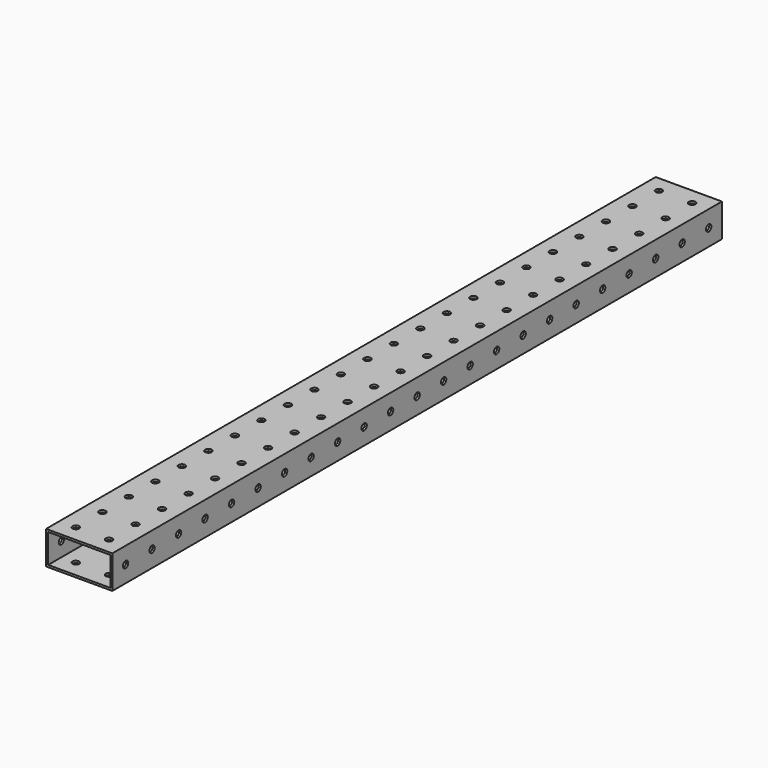
from build123d import *

# Parameters (mm, degrees)
F0_W     = 50.8
F0_H     = 25.4
F0_W_2   = 47.625
F0_H_2   = 22.225
F1_DEPTH = 584.2
F2_R     = 2.5527
F3_DEPTH = 25.4
F4_R     = 2.5527
F5_DEPTH = 50.801


with BuildPart() as f1:
    # F0 (on Front) → F1 (new body)
    with BuildSketch(Plane.XZ):
        Rectangle(F0_W, F0_H)
        Rectangle(F0_W_2, F0_H_2, mode=Mode.SUBTRACT)
    extrude(amount=F1_DEPTH)

    # F2 (on face) → F3 (cut)
    with BuildSketch(Plane.XY.offset(12.7)):
        with Locations((-12.7, -12.7)):
            Circle(F2_R)
        with Locations((-12.7, -38.1)):
            Circle(F2_R)
        with Locations((-12.7, -63.5)):
            Circle(F2_R)
        with Locations((-12.7, -88.9)):
            Circle(F2_R)
        with Locations((-12.7, -114.3)):
            Circle(F2_R)
        with Locations((-12.7, -139.7)):
            Circle(F2_R)
        with Locations((-12.7, -165.1)):
            Circle(F2_R)
        with Locations((-12.7, -190.5)):
            Circle(F2_R)
        with Locations((-12.7, -215.9)):
            Circle(F2_R)
        with Locations((-12.7, -241.3)):
            Circle(F2_R)
        with Locations((-12.7, -266.7)):
            Circle(F2_R)
        with Locations((-12.7, -292.1)):
            Circle(F2_R)
        with Locations((-12.7, -317.5)):
            Circle(F2_R)
        with Locations((-12.7, -342.9)):
            Circle(F2_R)
        with Locations((-12.7, -368.3)):
            Circle(F2_R)
        with Locations((-12.7, -393.7)):
            Circle(F2_R)
        with Locations((-12.7, -419.1)):
            Circle(F2_R)
        with Locations((-12.7, -444.5)):
            Circle(F2_R)
        with Locations((-12.7, -469.9)):
            Circle(F2_R)
        with Locations((-12.7, -495.3)):
            Circle(F2_R)
        with Locations((-12.7, -520.7)):
            Circle(F2_R)
        with Locations((-12.7, -546.1)):
            Circle(F2_R)
        with Locations((-12.7, -571.5)):
            Circle(F2_R)
        with Locations((12.7, -12.7)):
            Circle(F2_R)
        with Locations((12.7, -38.1)):
            Circle(F2_R)
        with Locations((12.7, -63.5)):
            Circle(F2_R)
        with Locations((12.7, -88.9)):
            Circle(F2_R)
        with Locations((12.7, -114.3)):
            Circle(F2_R)
        with Locations((12.7, -139.7)):
            Circle(F2_R)
        with Locations((12.7, -165.1)):
            Circle(F2_R)
        with Locations((12.7, -190.5)):
            Circle(F2_R)
        with Locations((12.7, -215.9)):
            Circle(F2_R)
        with Locations((12.7, -241.3)):
            Circle(F2_R)
        with Locations((12.7, -266.7)):
            Circle(F2_R)
        with Locations((12.7, -292.1)):
            Circle(F2_R)
        with Locations((12.7, -317.5)):
            Circle(F2_R)
        with Locations((12.7, -342.9)):
            Circle(F2_R)
        with Locations((12.7, -368.3)):
            Circle(F2_R)
        with Locations((12.7, -393.7)):
            Circle(F2_R)
        with Locations((12.7, -419.1)):
            Circle(F2_R)
        with Locations((12.7, -444.5)):
            Circle(F2_R)
        with Locations((12.7, -469.9)):
            Circle(F2_R)
        with Locations((12.7, -495.3)):
            Circle(F2_R)
        with Locations((12.7, -520.7)):
            Circle(F2_R)
        with Locations((12.7, -546.1)):
            Circle(F2_R)
        with Locations((12.7, -571.5)):
            Circle(F2_R)
    extrude(amount=-F3_DEPTH, mode=Mode.SUBTRACT)

    # F4 (on face) → F5 (cut, through all)
    with BuildSketch(Plane(origin=(-25.4, 0, 0), x_dir=(0, -1, 0), z_dir=(-1, 0, 0))):
        with Locations((12.7, 0)):
            Circle(F4_R)
        with Locations((38.1, 0)):
            Circle(F4_R)
        with Locations((63.5, 0)):
            Circle(F4_R)
        with Locations((88.9, 0)):
            Circle(F4_R)
        with Locations((114.3, 0)):
            Circle(F4_R)
        with Locations((139.7, 0)):
            Circle(F4_R)
        with Locations((165.1, 0)):
            Circle(F4_R)
        with Locations((190.5, 0)):
            Circle(F4_R)
        with Locations((215.9, 0)):
            Circle(F4_R)
        with Locations((241.3, 0)):
            Circle(F4_R)
        with Locations((266.7, 0)):
            Circle(F4_R)
        with Locations((292.1, 0)):
            Circle(F4_R)
        with Locations((317.5, 0)):
            Circle(F4_R)
        with Locations((342.9, 0)):
            Circle(F4_R)
        with Locations((368.3, 0)):
            Circle(F4_R)
        with Locations((393.7, 0)):
            Circle(F4_R)
        with Locations((419.1, 0)):
            Circle(F4_R)
        with Locations((444.5, 0)):
            Circle(F4_R)
        with Locations((469.9, 0)):
            Circle(F4_R)
        with Locations((495.3, 0)):
            Circle(F4_R)
        with Locations((520.7, 0)):
            Circle(F4_R)
        with Locations((546.1, 0)):
            Circle(F4_R)
        with Locations((571.5, 0)):
            Circle(F4_R)
    extrude(amount=-F5_DEPTH, mode=Mode.SUBTRACT)


solid = f1.part
